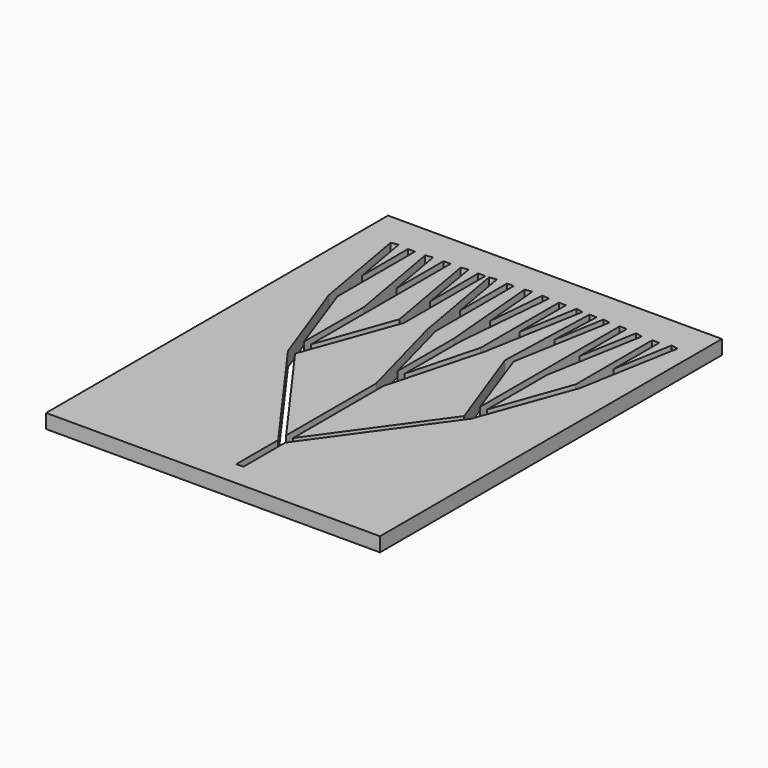
from build123d import *

# Parameters (mm, degrees)
F1_DEPTH = 10


with BuildPart() as f1:
    # F0 (on Top) → F1 (new body)
    with BuildSketch(Plane.XY):
        Polygon((135.599193, -169.707775), (135.599193, 130.292225), (23.099193, 130.292225), (-98.814286, 130.292225), (-98.814286, -169.707775), align=None)
        Polygon((20.599193, -108.350395), (20.599193, -29.432689), (2.48186, 38.182119), (-9.767923, 107.544516), (-4.843884, 108.412757), (2.48186, 66.866402), (2.48186, 108.087175), (7.311489, 108.087175), (7.311489, 39.476214), (20.599193, -10.592461), (20.599193, 38.829167), (14.498291, 108.562796), (19.479264, 108.998574), (23.099193, 67.493475), (26.719121, 108.998574), (31.700095, 108.562796), (25.599193, 38.829167), (25.599193, -10.592461), (38.886897, 39.476214), (38.886897, 108.087175), (43.886897, 108.087175), (43.787414, 67.268431), (51.042269, 108.412757), (55.966308, 107.544516), (43.716526, 38.182119), (25.599193, -29.432689), (25.599193, -108.358202), (82.472369, -29.488894), (58.530959, 36.289589), (60.88019, 107.544516), (65.877475, 107.379759), (64.538727, 72.304023), (70.460755, 107.804474), (75.384794, 106.936233), (63.229422, 37.99969), (82.472369, -15.569674), (82.472369, 37.14464), (82.472369, 106.936233), (87.472369, 106.936233), (87.472369, 65.501049), (94.627741, 106.081182), (99.55178, 105.212942), (87.472369, 37.14464), (87.472369, -15.569674), (106.715316, 37.99969), (106.715316, 105.212942), (111.715316, 105.212942), (111.540993, 65.367468), (118.870688, 106.936233), (123.794727, 106.067992), (111.413779, 36.289589), (87.472369, -29.488894), (25.599193, -115.29199), (25.599193, -152.039438), (20.599193, -152.039438), (20.599193, -115.29199), (-41.245863, -29.431347), (-65.187273, 36.347136), (-77.568221, 106.125539), (-72.644183, 106.99378), (-65.312866, 65.415814), (-65.48881, 106.138729), (-60.48881, 106.138729), (-60.48881, 38.057237), (-41.245863, -15.512127), (-41.245863, 37.202187), (-53.401236, 106.138729), (-48.477197, 107.00697), (-41.245863, 65.737416), (-41.245863, 106.9938), (-36.245863, 106.9938), (-36.245863, 37.202187), (-36.245863, -15.512126), (-17.00291, 38.057258), (-29.158282, 106.9938), (-24.234244, 107.862041), (-17.120779, 65.219351), (-17.304447, 107.544516), (-12.304447, 107.544516), (-12.304447, 36.347157), (-36.245857, -29.431327), align=None, mode=Mode.SUBTRACT)
    extrude(amount=F1_DEPTH)


solid = f1.part
